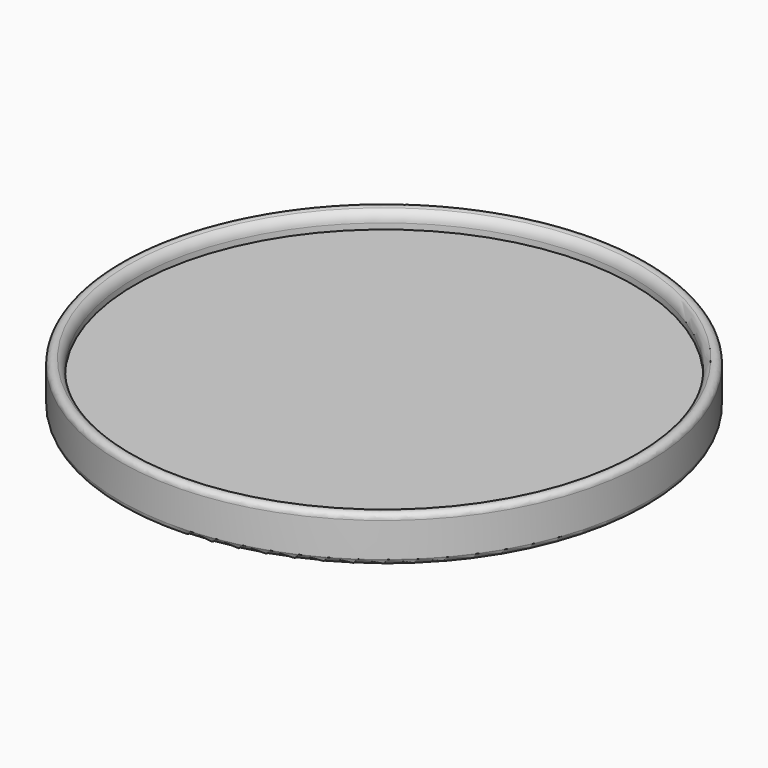
from build123d import *

# Parameters (mm, degrees)
F0_R     = 42.5
F1_DEPTH = 5
F0_R_2   = 45
F2_DEPTH = 8
F3_R     = 2
F4_R     = 1


with BuildPart() as f1:
    # F0 (on Top) → F1 (new body)
    with BuildSketch(Plane.XY):
        Circle(F0_R)
    extrude(amount=F1_DEPTH)

    # F0 (on Top) → F2 (join)
    with BuildSketch(Plane.XY):
        Circle(F0_R_2)
        Circle(F0_R, mode=Mode.SUBTRACT)
    extrude(amount=F2_DEPTH)

    # F3
    f3_edges = [f1.edges().sort_by_distance(p)[0] for p in [
        (-42.5, 0, 8),
    ]]
    fillet(f3_edges, radius=F3_R)

    # F4
    f4_edges = [f1.edges().sort_by_distance(p)[0] for p in [
        (45, 0, 4),
        (-45, 0, 0),
        (-45, 0, 8),
    ]]
    fillet(f4_edges, radius=F4_R)


solid = f1.part
